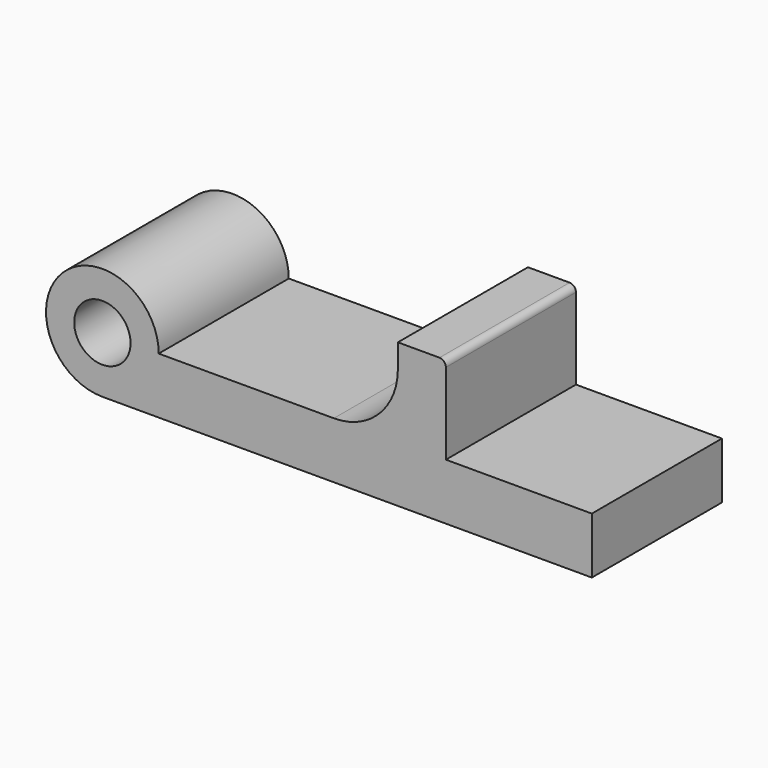
from build123d import *

# Parameters (mm, degrees)
F0_R     = 0.44
F1_DEPTH = 2.54


with BuildPart() as f1:
    # F0 (on Front) → F1 (new body)
    with BuildSketch(Plane.XZ):
        with BuildLine():
            Line((38.29968, -10.089144), (36.56368, -10.089144))
            ThreePointArc((36.56368, -10.089144), (35.061426, -9.46689), (35.68368, -10.969144))
            Line((35.68368, -10.969144), (40.29968, -10.969144))
            Line((40.29968, -10.969144), (43.32968, -10.969144))
            Line((43.32968, -10.969144), (43.32968, -10.089144))
            Line((43.32968, -10.089144), (41.04968, -10.089144))
            Line((41.04968, -10.089144), (41.04968, -8.919144))
            Line((41.04968, -8.919144), (41.04968, -8.819144))
            ThreePointArc((41.04968, -8.819144), (41.020391, -8.748433), (40.94968, -8.719144))
            Line((40.94968, -8.719144), (40.29968, -8.719144))
            Line((40.29968, -8.719144), (40.29968, -9.089144))
            ThreePointArc((40.29968, -9.089144), (40.006787, -9.79625), (39.29968, -10.089144))
            Line((39.29968, -10.089144), (38.29968, -10.089144))
        make_face()
        with Locations((35.68368, -10.089144)):
            Circle(F0_R, mode=Mode.SUBTRACT)
    extrude(amount=F1_DEPTH)


solid = f1.part
